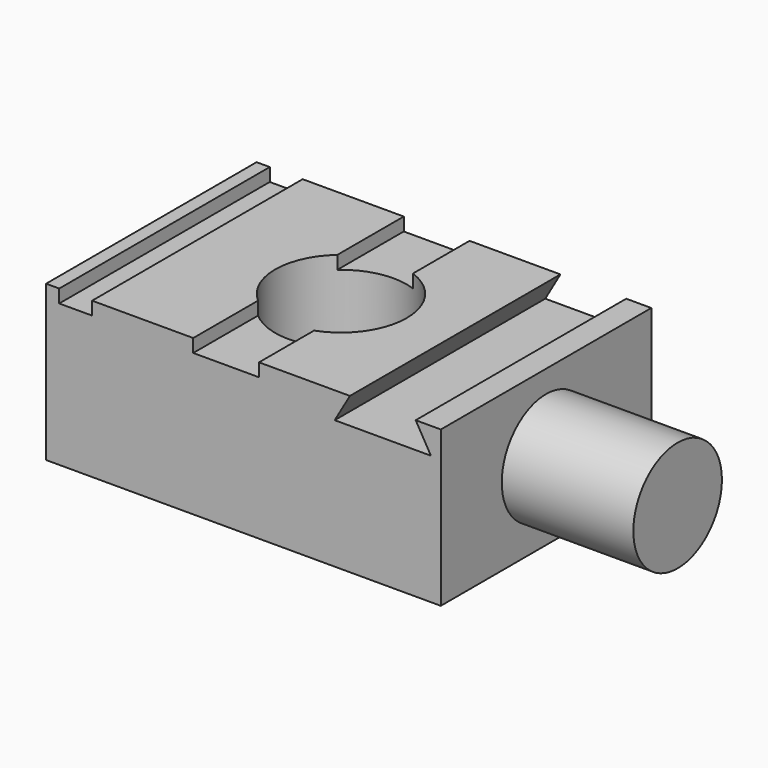
from build123d import *

# Parameters (mm, degrees)
F0_W     = 76.2
F0_H     = 50.8
F0_R     = 12.7
F1_DEPTH = 29.972
F2_W     = 6.35
F2_H     = 50.8
F3_DEPTH = 2.54
F5_R     = 10.6886157163
F6_DEPTH = 25.4
F7_DEPTH = 50.801


with BuildPart() as f1:
    # F0 (on Top) → F1 (new body)
    with BuildSketch(Plane.XY):
        with Locations((3.3417083323, 0.1945786622)):
            Rectangle(F0_W, F0_H)
        with Locations((2.0050231833, 0)):
            Circle(F0_R, mode=Mode.SUBTRACT)
    extrude(amount=F1_DEPTH)

    # F2 (on face) → F3 (cut)
    with BuildSketch(Plane.XY.offset(29.972)):
        with Locations((-29.0432916677, 0.1945786622)):
            Rectangle(F2_W, F2_H)
        with BuildLine():
            Line((6.35, 25.5945786622), (-6.35, 25.5945786622))
            Line((-6.35, 25.5945786622), (-6.35, 9.5647053068))
            ThreePointArc((-6.35, 9.5647053068), (-0.3237214829, 12.484668529), (6.35, 11.9336153978))
            Line((6.35, 11.9336153978), (6.35, 25.5945786622))
        make_face()
        with BuildLine():
            Line((-6.35, -9.5647053068), (-6.35, -25.2054213378))
            Line((-6.35, -25.2054213378), (6.35, -25.2054213378))
            Line((6.35, -25.2054213378), (6.35, -11.9336153978))
            ThreePointArc((6.35, -11.9336153978), (-0.3237214829, -12.484668529), (-6.35, -9.5647053068))
        make_face()
    extrude(amount=-F3_DEPTH, mode=Mode.SUBTRACT)

    # F5 (on face) → F6 (join)
    with BuildSketch(Plane.YZ.offset(41.4417083323)):
        with Locations((0.1945786622, 14.986)):
            Circle(F5_R)
    extrude(amount=F6_DEPTH)

    # F4 (on face) → F7 (cut, through all)
    with BuildSketch(Plane.XZ.offset(25.2054213378)):
        Polygon((36.5958541662, 29.972), (23.8958541662, 29.972), (20.9629147987, 24.892), (39.5287935336, 24.892), align=None)
    extrude(amount=-F7_DEPTH, mode=Mode.SUBTRACT)


solid = f1.part
